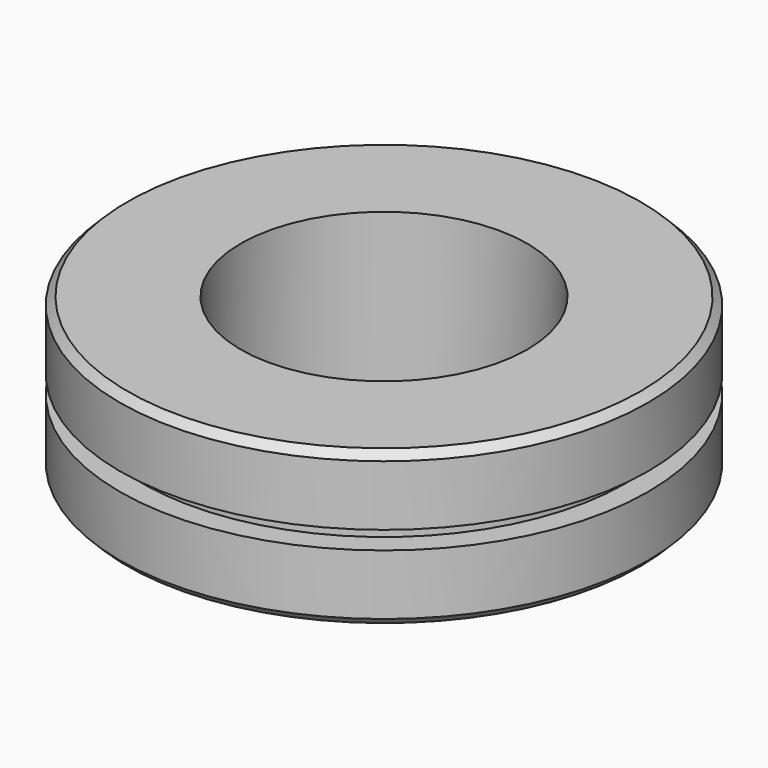
from build123d import *

# Parameters (mm, degrees)
F0_R     = 17.5
F0_R_2   = 9.5
F1_DEPTH = 4.5
F2_R     = 16
F2_R_2   = 9.5
F3_DEPTH = 1.2
F4_R     = 17.5
F4_R_2   = 9.5
F5_DEPTH = 4.5
F6_SIZE  = 0.5


with BuildPart() as f1:
    # F0 (on Top) → F1 (new body)
    with BuildSketch(Plane.XY):
        Circle(F0_R)
        Circle(F0_R_2, mode=Mode.SUBTRACT)
    extrude(amount=F1_DEPTH)

    # F2 (on face) → F3 (join)
    with BuildSketch(Plane.XY.offset(4.5)):
        Circle(F2_R)
        Circle(F2_R_2, mode=Mode.SUBTRACT)
    extrude(amount=F3_DEPTH)

    # F4 (on face) → F5 (join)
    with BuildSketch(Plane.XY.offset(5.7)):
        Circle(F4_R)
        Circle(F4_R_2, mode=Mode.SUBTRACT)
    extrude(amount=F5_DEPTH)

    # F6
    f6_edges = [f1.edges().sort_by_distance(p)[0] for p in [
        (-17.5, 0, 10.2),
        (-17.5, 0, 0),
    ]]
    chamfer(f6_edges, length=F6_SIZE)


solid = f1.part
